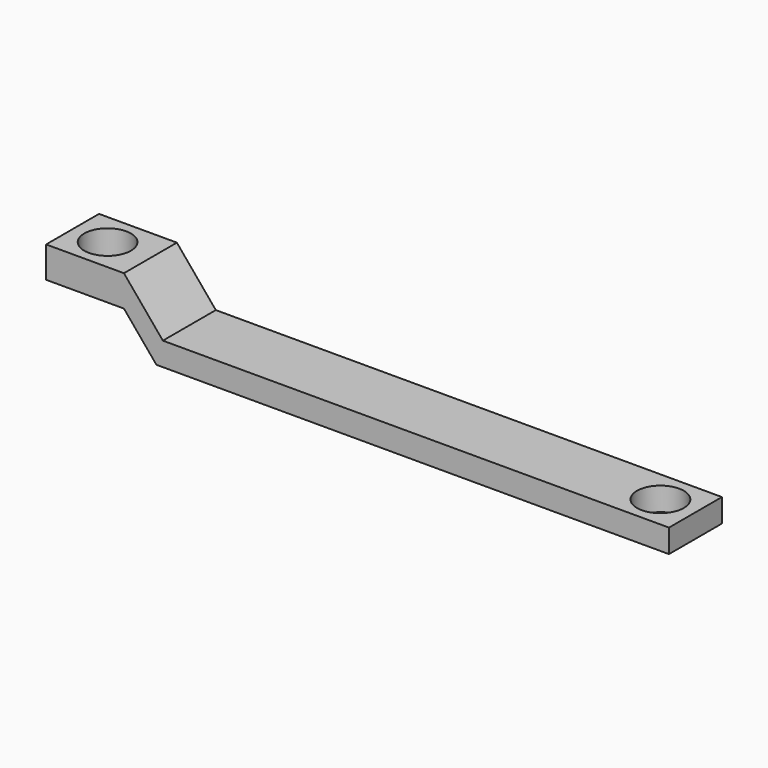
from build123d import *

# Parameters (mm, degrees)
F1_DEPTH = 4.25
F2_R     = 3
F3_DEPTH = 25


with BuildPart() as f1:
    # F0 (on Front) → F1 (new body, symmetric)
    with BuildSketch(Plane.XZ):
        Polygon((-25.833333, 0), (0, 0), (40, 0), (40, 3), (-25, 3), (-30, 9), (-40, 9), (-40, 5), (-30, 5), align=None)
    extrude(amount=F1_DEPTH, both=True)

    # F2 (on face) → F3 (cut)
    with BuildSketch(Plane.XY.offset(9)):
        with Locations((-35.5, 0)):
            Circle(F2_R)
        with Locations((35.5, 0)):
            Circle(F2_R)
    extrude(amount=-F3_DEPTH, mode=Mode.SUBTRACT)


solid = f1.part
